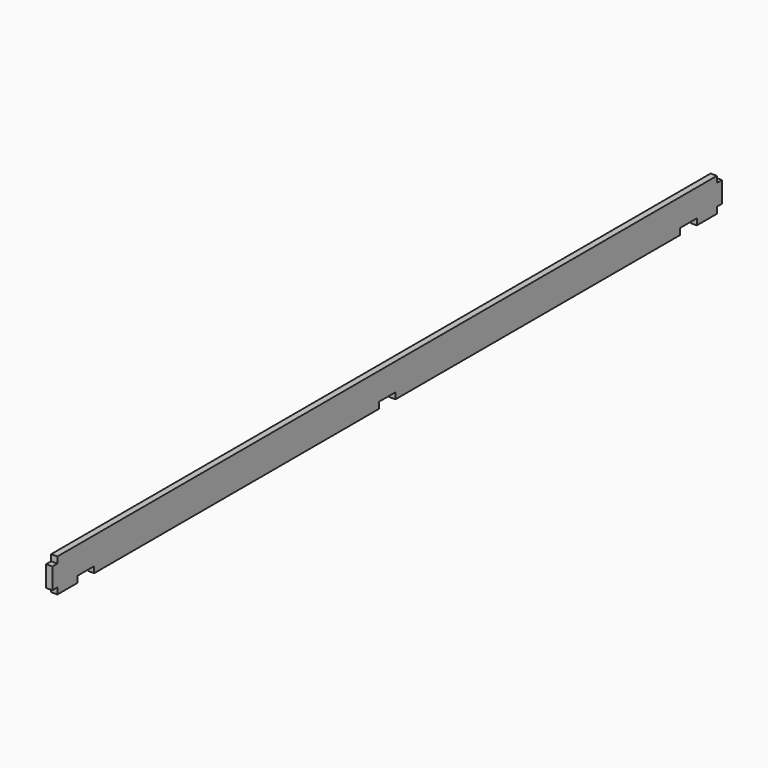
from build123d import *

# Parameters (mm, degrees)
PAD003_DEPTH           = 3
SKETCH005_W            = 10
SKETCH005_H            = 3
POCKET001_DEPTH        = 3
LINEARPATTERN001_COUNT = 3
LINEARPATTERN001_PITCH = 180


with BuildPart() as part:
    # Sketch004 → Pad003 (new body)
    with BuildSketch(Plane.YZ):
        Polygon((394, 0), (0, 0), (0, -3), (-3, -3), (-3, -13), (0, -13), (0, -16), (394, -16), (394, -13), (397, -13), (397, -3), (394, -3), align=None)
    extrude(amount=PAD003_DEPTH)

    # Sketch005 → Pocket001 (cut)
    with BuildSketch(Plane.YZ.offset(3)):
        with Locations((17, -14.5)):
            Rectangle(SKETCH005_W, SKETCH005_H)
    pocket001 = extrude(amount=-POCKET001_DEPTH, mode=Mode.SUBTRACT)

    # LinearPattern001: Pocket001 ×3
    with Locations(*[(0, i * LINEARPATTERN001_PITCH, 0) for i in range(1, LINEARPATTERN001_COUNT)]):
        add(pocket001, mode=Mode.SUBTRACT)


with BuildPart() as part_1:
    # Body003 placement: moved
    add(part.part.moved(Location((0, 0, 29))))


solid = part_1.part
